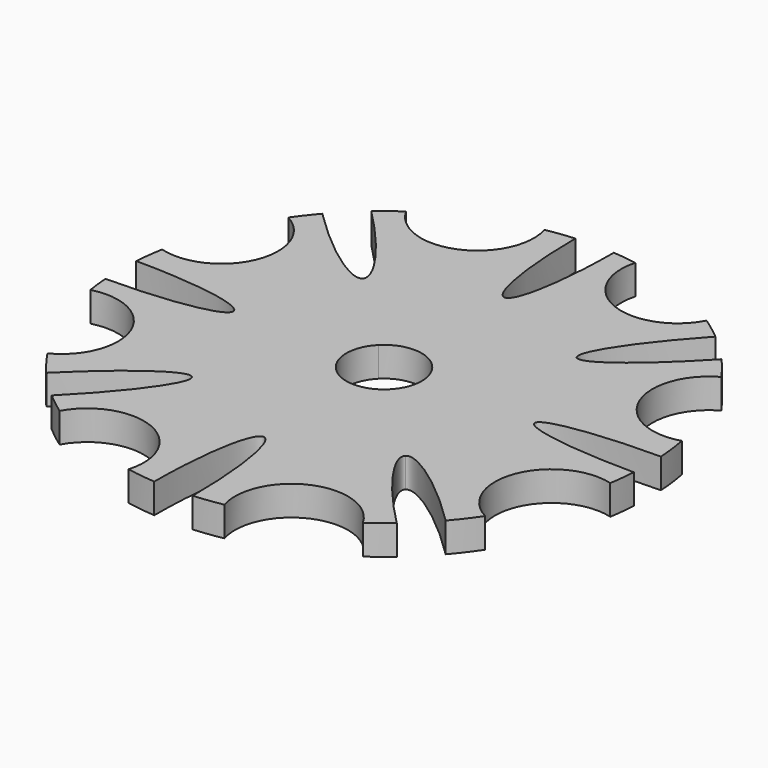
from build123d import *

# Parameters (mm, degrees)
F1_DEPTH = 5


with BuildPart() as f1:
    # F0 (on Top) → F1 (new body)
    with BuildSketch(Plane.XY):
        with BuildLine():
            add(Edge.make_bspline(
                [(17.960512809, -17.960512809), (15.6802243454, -20.2331445456), (29.0574428343, -33.6372935287)],
                knots=[6.282890907, 6.282890907, 6.282890907, 7.8477722056, 7.8477722056, 7.8477722056], degree=2, weights=[1, 0.7091949639, 1]))
            Line((17.960512809, -17.960512809), (4.4910260861, -4.4910260861))
            ThreePointArc((4.4910260861, -4.4910260861), (0, -6.35127), (-4.4910260861, -4.4910260861))
            Line((-4.4910260861, -4.4910260861), (-17.9660364379, -17.9660364379))
            add(Edge.make_bspline(
                [(-29.1037800474, -33.5972095114), (-15.9810329654, -20.44676612), (-17.9660364379, -17.9660364379)],
                knots=[1.576997225, 1.576997225, 1.576997225, 3.1227237577, 3.1227237577, 3.1227237577], degree=2, weights=[1, 0.7159145089, 1]))
            ThreePointArc((-29.1037800474, -33.5972095114), (-27.3554893491, -35.0354064122), (-25.5362426788, -36.3827268061))
            ThreePointArc((-25.5362426788, -36.3827268061), (-13.5131315962, -32.2048272696), (-8.0710910961, -43.7110968579))
            ThreePointArc((-8.0710910961, -43.7110968579), (-5.6632765753, -44.0877511156), (-3.2384377382, -44.3318736466))
            add(Edge.make_bspline(
                [(3.2384377382, -44.3318736466), (3.2184803968, -25.4), (0, -25.4), (-3.2184803968, -25.4), (-3.2384377382, -44.3318736466)],
                knots=[4.7185898786, 4.7185898786, 4.7185898786, 6.2831853072, 6.2831853072, 7.8477807358, 7.8477807358, 7.8477807358], degree=2, weights=[1, 0.7092957276, 1, 0.7092957276, 1]))
            ThreePointArc((3.2384377382, -44.3318736466), (5.6632776972, -44.0877509715), (8.0710933206, -43.7110964471))
            ThreePointArc((8.0710933206, -43.7110964471), (13.5131332351, -32.2048265819), (25.5362445304, -36.3827255066))
            ThreePointArc((25.5362445304, -36.3827255066), (27.3313377683, -35.0542504669), (29.0574428343, -33.6372935287))
        make_face()
        with BuildLine():
            add(Edge.make_bspline(
                [(44.3580588388, 2.8574667196), (25.4, 2.843741946), (25.4, 0), (25.4, -2.843741946), (44.3580588388, -2.8574667196)],
                knots=[4.7172153068, 4.7172153068, 4.7172153068, 6.2831853072, 6.2831853072, 7.8491553076, 7.8491553076, 7.8491553076], degree=2, weights=[1, 0.7088110847, 1, 0.7088110847, 1]))
            ThreePointArc((44.3580588388, 2.8574667196), (44.1116709386, 5.4738457236), (43.7110967552, 8.0710916523))
            ThreePointArc((43.7110967552, 8.0710916523), (32.2048270977, 13.5131320059), (36.3827264812, 25.5362431418))
            ThreePointArc((36.3827264812, 25.5362431418), (34.8720687583, 27.5634054594), (33.2486042571, 29.5014036099))
            add(Edge.make_bspline(
                [(18.0297160686, 18.0297160686), (19.9566530018, 15.2356768134), (33.2486042571, 29.5014036099)],
                knots=[3.1036959155, 3.1036959155, 3.1036959155, 4.6978570798, 4.6978570798, 4.6978570798], degree=2, weights=[1, 0.6987979995, 1]))
            Line((18.0297160686, 18.0297160686), (4.4910260861, 4.4910260861))
            ThreePointArc((4.4910260861, 4.4910260861), (5.8678083585, 2.4305258035), (6.35127, 0))
            ThreePointArc((6.35127, 0), (5.8678083585, -2.4305258035), (4.4910260861, -4.4910260861))
            Line((4.4910260861, -4.4910260861), (17.960512809, -17.960512809))
            add(Edge.make_bspline(
                [(33.6372860032, -29.0574515459), (20.2394978879, -15.6891800806), (17.960512809, -17.960512809)],
                knots=[4.7185813484, 4.7185813484, 4.7185813484, 6.282890907, 6.282890907, 6.282890907], degree=2, weights=[1, 0.7093964769, 1]))
            ThreePointArc((33.6372860032, -29.0574515459), (35.3259920878, -26.9791916672), (36.8864875406, -24.803014674))
            ThreePointArc((36.8864875406, -24.803014674), (32.4688107335, -12.8659222194), (43.8638664264, -7.1947009755))
            ThreePointArc((43.8638664264, -7.1947009755), (44.1642380736, -5.0321541488), (44.3580588388, -2.8574667196))
        make_face()
        with BuildLine():
            Line((4.4910260861, 4.4910260861), (18.0297160686, 18.0297160686))
            add(Edge.make_bspline(
                [(28.6070931031, 34.0211217362), (16.2285166945, 20.6414371225), (18.0297160686, 18.0297160686)],
                knots=[1.576997225, 1.576997225, 1.576997225, 3.1036959155, 3.1036959155, 3.1036959155], degree=2, weights=[1, 0.7225245136, 1]))
            ThreePointArc((28.6070931031, 34.0211217362), (26.7637763288, 35.4894741666), (24.8452280049, 36.8580675753))
            ThreePointArc((24.8452280049, 36.8580675753), (12.9030857851, 32.4540598727), (7.2449139151, 43.8556008095))
            ThreePointArc((7.2449139151, 43.8556008095), (5.247082468, 44.1392186788), (3.2384377382, 44.3318736466))
            add(Edge.make_bspline(
                [(-3.2384377382, 44.3318736466), (-3.2184803968, 25.4), (0, 25.4), (3.2184803968, 25.4), (3.2384377382, 44.3318736466)],
                knots=[1.576997225, 1.576997225, 1.576997225, 3.1415926536, 3.1415926536, 4.7061880822, 4.7061880822, 4.7061880822], degree=2, weights=[1, 0.7092957276, 1, 0.7092957276, 1]))
            ThreePointArc((-3.2384377382, 44.3318736466), (-5.6023539167, 44.0955341343), (-7.950266755, 43.7332340277))
            ThreePointArc((-7.950266755, 43.7332340277), (-13.4240835005, 32.2420471926), (-25.4356032496, 36.4531560682))
            ThreePointArc((-25.4356032496, 36.4531560682), (-27.2828792759, 35.091979118), (-29.0574503266, 33.6372870565))
            add(Edge.make_bspline(
                [(-17.9605125358, 17.9605125358), (-15.6879254577, 20.2386077571), (-29.0574503266, 33.6372870565)],
                knots=[0.0002118916, 0.0002118916, 0.0002118916, 1.5646015681, 1.5646015681, 1.5646015681], degree=2, weights=[1, 0.7093682423, 1]))
            Line((-17.9605125358, 17.9605125358), (-4.4910260861, 4.4910260861))
            ThreePointArc((-4.4910260861, 4.4910260861), (0, 6.35127), (4.4910260861, 4.4910260861))
        make_face()
        with BuildLine():
            ThreePointArc((-4.4910260861, -4.4910260861), (-6.35127, 0), (-4.4910260861, 4.4910260861))
            Line((-4.4910260861, 4.4910260861), (-17.9605125358, 17.9605125358))
            add(Edge.make_bspline(
                [(-33.6372924729, 29.0574440565), (-20.2340350033, 15.6814796579), (-17.9605125358, 17.9605125358)],
                knots=[4.7185960181, 4.7185960181, 4.7185960181, 6.2833971988, 6.2833971988, 6.2833971988], degree=2, weights=[1, 0.7092232054, 1]))
            ThreePointArc((-33.6372924729, 29.0574440565), (-35.0919796241, 27.2828786249), (-36.4531522707, 25.4356086919))
            ThreePointArc((-36.4531522707, 25.4356086919), (-32.2420451884, 13.4240883142), (-43.7332328408, 7.9502732843))
            ThreePointArc((-43.7332328408, 7.9502732843), (-44.0955337161, 5.6023572084), (-44.3318736466, 3.2384377382))
            add(Edge.make_bspline(
                [(-44.3318736466, -3.2384377382), (-25.4, -3.2184803968), (-25.4, 0), (-25.4, 3.2184803968), (-44.3318736466, 3.2384377382)],
                knots=[1.576997225, 1.576997225, 1.576997225, 3.1415926536, 3.1415926536, 4.7061880822, 4.7061880822, 4.7061880822], degree=2, weights=[1, 0.7092957276, 1, 0.7092957276, 1]))
            ThreePointArc((-44.3318736466, -3.2384377382), (-44.1564712104, -5.0998578651), (-43.9029457794, -6.9522551658))
            ThreePointArc((-43.9029457794, -6.9522551658), (-32.5393959561, -12.686344462), (-37.0229545531, -24.598848269))
            ThreePointArc((-37.0229545531, -24.598848269), (-35.4189008641, -26.8571026281), (-33.6773037539, -29.011061888))
            add(Edge.make_bspline(
                [(-17.9660364379, -17.9660364379), (-20.0264213053, -15.3910999362), (-33.6773037539, -29.011061888)],
                knots=[3.1227237577, 3.1227237577, 3.1227237577, 4.7057194921, 4.7057194921, 4.7057194921], degree=2, weights=[1, 0.7027805116, 1]))
            Line((-17.9660364379, -17.9660364379), (-4.4910260861, -4.4910260861))
        make_face()
    extrude(amount=-F1_DEPTH)


solid = f1.part
